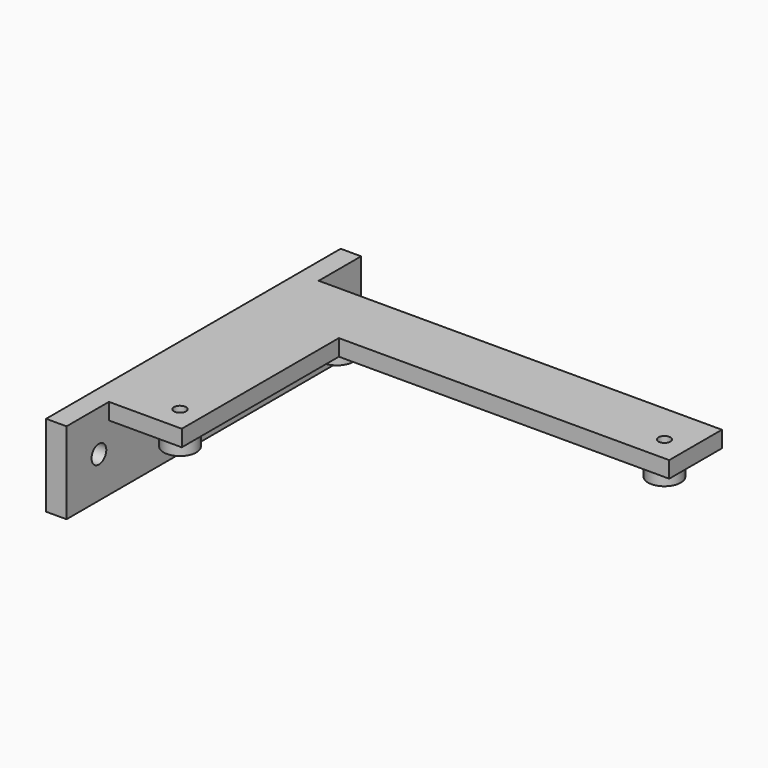
from build123d import *

# Parameters (mm, degrees)
F1_DEPTH = 4
F2_R     = 4
F2_R_2   = 1.45
F3_DEPTH = 4
F2_W     = 5
F2_H     = 64.0853656404
F2_H_2   = 12.9573171798
F4_DEPTH = 16
F5_R     = 2.25
F6_DEPTH = 25
F7_DEPTH = 4
F8_DEPTH = 25


with BuildPart() as f1:
    # F0 (on Top) → F1 (new body)
    with BuildSketch(Plane.XY):
        Polygon((32.6684095042, 32.6008076754), (-70.8834637033, 32.6008076754), (-70.8834637033, -31.4845579651), (-48.0820438839, -31.4845579651), (-48.0820438839, 16.5019411054), (32.6684095042, 16.5019411054), align=None)
    extrude(amount=-F1_DEPTH)

    # F2 (on face) → F3 (join)
    with BuildSketch(Plane(origin=(0, 0, -4), x_dir=(1, 0, 0), z_dir=(0, 0, -1))):
        with Locations((-53.3834637033, 25.3991923246)):
            Circle(F2_R)
        with Locations((-53.3834637033, 25.3991923246)):
            Circle(F2_R_2, mode=Mode.SUBTRACT)
        with Locations((26.6165362967, -22.6008076754)):
            Circle(F2_R)
        with Locations((26.6165362967, -22.6008076754)):
            Circle(F2_R_2, mode=Mode.SUBTRACT)
        with Locations((-53.3834637033, -22.6008076754)):
            Circle(F2_R)
    extrude(amount=F3_DEPTH)

    # F2 (on face) → F4 (join)
    with BuildSketch(Plane(origin=(0, 0, -4), x_dir=(1, 0, 0), z_dir=(0, 0, -1))):
        with Locations((-68.3834637033, -0.5581248552)):
            Rectangle(F2_W, F2_H)
        with Locations((-68.3834637033, 37.963216555)):
            Rectangle(F2_W, F2_H_2)
        with Locations((-68.3834637033, -39.0794662653)):
            Rectangle(F2_W, F2_H_2)
    extrude(amount=F4_DEPTH)

    # F5 (on face) → F6 (cut)
    with BuildSketch(Plane(origin=(-70.8834637033, 0, 0), x_dir=(0, -1, 0), z_dir=(-1, 0, 0))):
        with Locations((-36.1952548007, -10)):
            Circle(F5_R)
        with Locations((34.5479122297, -10)):
            Circle(F5_R)
    extrude(amount=-F6_DEPTH, mode=Mode.SUBTRACT)

    # F2 (on face) → F7 (join)
    with BuildSketch(Plane(origin=(0, 0, -4), x_dir=(1, 0, 0), z_dir=(0, 0, -1))):
        with Locations((-68.3834637033, 37.963216555)):
            Rectangle(F2_W, F2_H_2)
        with Locations((-68.3834637033, -39.0794662653)):
            Rectangle(F2_W, F2_H_2)
    extrude(amount=-F7_DEPTH)

    # F2 (on face) → F8 (cut)
    with BuildSketch(Plane(origin=(0, 0, -4), x_dir=(1, 0, 0), z_dir=(0, 0, -1))):
        with Locations((-53.3834637033, 25.3991923246)):
            Circle(F2_R_2)
        with Locations((26.6165362967, -22.6008076754)):
            Circle(F2_R_2)
    extrude(amount=-F8_DEPTH, mode=Mode.SUBTRACT)


solid = f1.part
